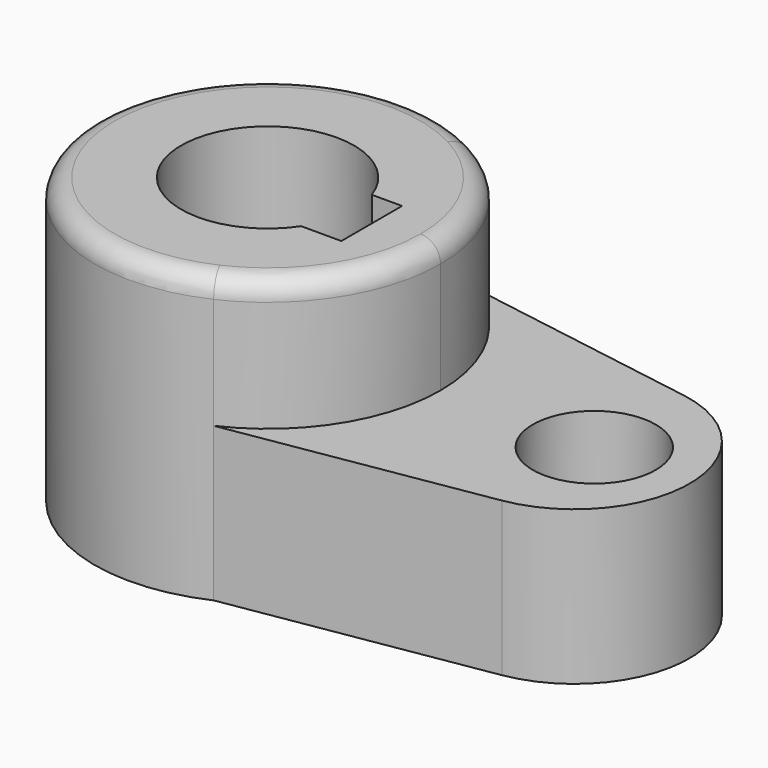
from build123d import *

# Parameters (mm, degrees)
F1_DEPTH = 47.0916
F0_R     = 10.16
F2_DEPTH = 25.4
F3_R     = 3.302


with BuildPart() as f1:
    # F0 (on Top) → F1 (new body)
    with BuildSketch(Plane.XY):
        with BuildLine():
            ThreePointArc((-42.087322, -25.984875), (-29.931071, -15.440859), (-25.4, 0))
            ThreePointArc((-25.4, 0), (-29.45069, 14.665908), (-40.454339, 25.173842))
            ThreePointArc((-40.454339, 25.173842), (-82.535454, 0.911648), (-42.087322, -25.984875))
        make_face()
        with BuildLine():
            ThreePointArc((-42.087322, -7.92564), (-68.142943, 1.844467), (-40.454339, 4.617833))
            Line((-40.454339, 4.617833), (-35.4457, 4.617833))
            Line((-35.4457, 4.617833), (-35.4457, -7.92564))
            Line((-35.4457, -7.92564), (-42.087322, -7.92564))
        make_face(mode=Mode.SUBTRACT)
    extrude(amount=F1_DEPTH)

    # F0 (on Top) → F2 (join)
    with BuildSketch(Plane.XY):
        with BuildLine():
            ThreePointArc((-40.454339, 25.173842), (-29.45069, 14.665908), (-25.4, 0))
            ThreePointArc((-25.4, 0), (-29.931071, -15.440859), (-42.087322, -25.984875))
            Line((-42.087322, -25.984875), (0, -19.069276))
            ThreePointArc((0, -19.069276), (15.96121, -0.271354), (0, 18.526568))
            Line((0, 18.526568), (-40.454339, 25.173842))
        make_face()
        Circle(F0_R, mode=Mode.SUBTRACT)
    extrude(amount=F2_DEPTH)

    # F3
    f3_edges = [f1.edges().sort_by_distance(p)[0] for p in [
        (-65.862678, 25.984875, 47.0916),
    ]]
    fillet(f3_edges, radius=F3_R)


solid = f1.part
